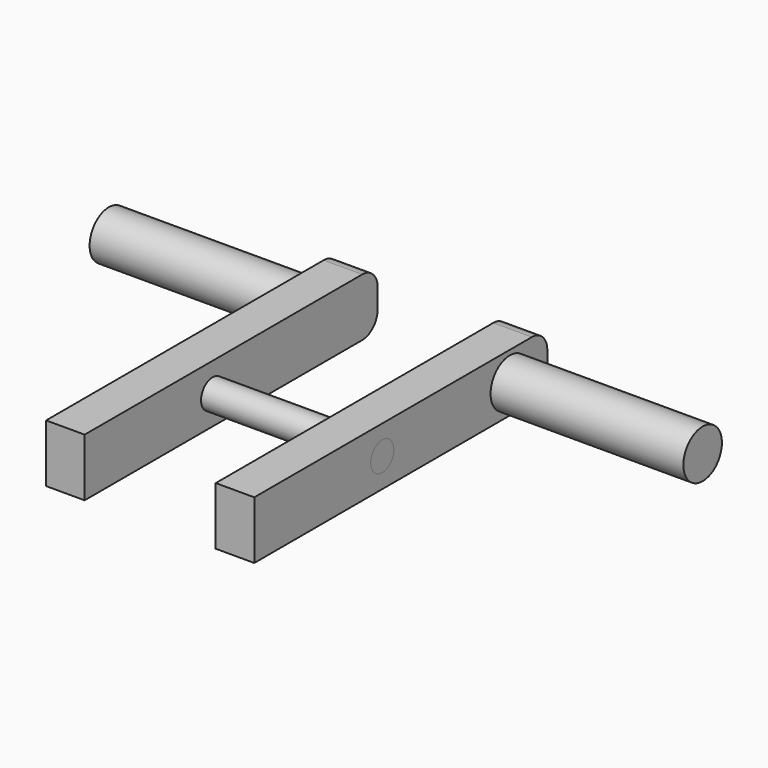
from build123d import *

# Parameters (mm, degrees)
F0_W     = 19
F0_H     = 3
F1_DEPTH = 2
F2_R     = 1.25
F3_DEPTH = 10
F4_R     = 1
F7_R     = 0.75
F8_DEPTH = 10.8


with BuildPart() as f1:
    # F0 (on Right) → F1 (new body)
    with BuildSketch(Plane.YZ):
        Rectangle(F0_W, F0_H)
    extrude(amount=F1_DEPTH)

    # F2 (on face) → F3 (join)
    with BuildSketch(Plane.YZ.offset(2)):
        with Locations((7.0719453506, 0)):
            Circle(F2_R)
    extrude(amount=F3_DEPTH)

    # F4
    f4_edges = [f1.edges().sort_by_distance(p)[0] for p in [
        (1, 9.5, 1.5),
        (1, 9.5, -1.5),
    ]]
    fillet(f4_edges, radius=F4_R)


with BuildPart() as f5_1:
    # F5: instance of F1
    add(f1.part.mirror(Plane(origin=(0, -0.0703819782, 0), x_dir=(0, 1, 0), z_dir=(-1, 0, 0))))


with BuildPart() as f5_1_1:
    # F6: moved
    add(f5_1.part.moved(Location((-6.8, 0, 0))))


with BuildPart() as f8:
    # F7 (on face) → F8 (new body, through all)
    with BuildSketch(Plane.YZ.offset(2)):
        with Locations((-1.2015507091, 0)):
            Circle(F7_R)
    extrude(amount=-F8_DEPTH)


solid = Compound([f1.part, f5_1_1.part, f8.part])
